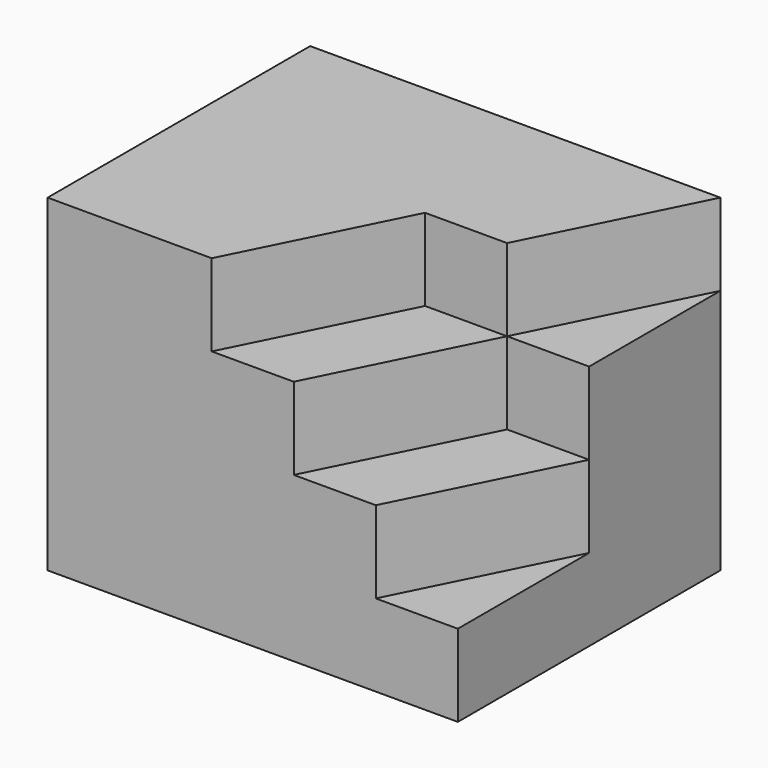
from build123d import *

# Parameters (mm, degrees)
F0_W     = 50
F0_H     = 40
F1_DEPTH = 40
F3_DEPTH = 10
F5_DEPTH = 10
F7_DEPTH = 10


with BuildPart() as f1:
    # F0 (on Top) → F1 (new body)
    with BuildSketch(Plane.XY):
        with Locations((25, 20)):
            Rectangle(F0_W, F0_H)
    extrude(amount=F1_DEPTH)

    # F2 (on face) → F3 (cut)
    with BuildSketch(Plane.XY.offset(40)):
        Polygon((30, 20), (20, 0), (50, 0), (50, 40), (40, 20), align=None)
    extrude(amount=-F3_DEPTH, mode=Mode.SUBTRACT)

    # F4 (on face) → F5 (cut)
    with BuildSketch(Plane.XY.offset(30)):
        Polygon((40, 20), (30, 0), (50, 0), (50, 20), align=None)
    extrude(amount=-F5_DEPTH, mode=Mode.SUBTRACT)

    # F6 (on face) → F7 (cut)
    with BuildSketch(Plane.XY.offset(20)):
        Polygon((50, 20), (40, 0), (50, 0), align=None)
    extrude(amount=-F7_DEPTH, mode=Mode.SUBTRACT)


solid = f1.part
